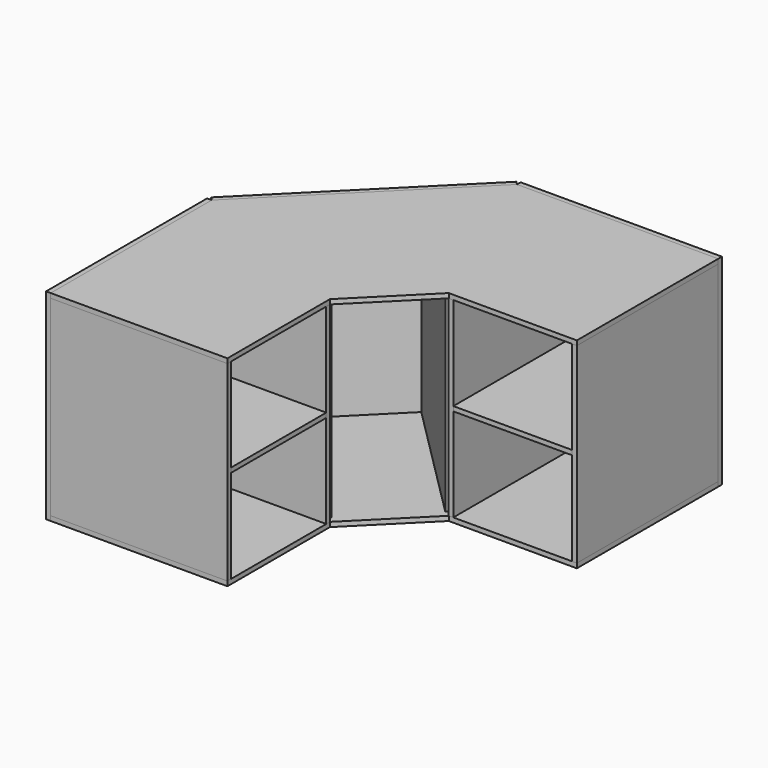
from build123d import *

# Parameters (mm, degrees)
F2_DEPTH  = 3.15
F3_W      = 120
F3_H      = 130
F4_DEPTH  = 3.15
F6_W      = 120
F6_H      = 130
F7_DEPTH  = 3.15
F11_W     = 120
F11_H     = 80.75
F12_DEPTH = 3.15
F11_W_2   = 80.75
F11_H_2   = 120
F14_DEPTH = 130
F15_W     = 136.7056274848
F15_H     = 136.3
F16_DEPTH = 3.15
F17_W     = 136.7056274848
F17_H     = 136.3
F18_DEPTH = 3.15
F19_W     = 162.838733242
F19_H     = 136.3
F20_DEPTH = 3.15


with BuildPart() as f2:
    # F1 (on Top) → F2 (new body)
    with BuildSketch(Plane.XY):
        Polygon((0, 136.7056274848), (0, 0), (120, 0), (120, 87), (164.85, 131.85), (251.85, 131.85), (251.85, 251.85), (115.1443725152, 251.85), align=None)
    extrude(amount=F2_DEPTH)


with BuildPart() as f4:
    # F3 (on face) → F4 (new body)
    with BuildSketch(Plane.XZ):
        with Locations((60, -65)):
            Rectangle(F3_W, F3_H)
    extrude(amount=-F4_DEPTH)


with BuildPart() as f5_1:
    # F5: copy of F4
    add(f4.part.moved(Location((0, 83.9, 0))))


with BuildPart() as f7:
    # F6 (on face) → F7 (new body)
    with BuildSketch(Plane.YZ.offset(251.85)):
        with Locations((191.85, -65)):
            Rectangle(F6_W, F6_H)
    extrude(amount=-F7_DEPTH)


with BuildPart() as f8_1:
    # F8: copy of F7
    add(f7.part.moved(Location((-83.9, 0, 0))))


with BuildPart() as f9_1:
    # F9: copy of F2
    add(f2.part.moved(Location((0, 0, -133.15))))


with BuildPart() as f12:
    # F11 (on offset) → F12 (new body)
    with BuildSketch(Plane.XY.offset(-66.575)):
        with Locations((60, 43.525)):
            Rectangle(F11_W, F11_H)
    extrude(amount=F12_DEPTH)


with BuildPart() as f12b:
    # F11 (on offset) → F12, piece 2 (new body)
    with BuildSketch(Plane.XY.offset(-66.575)):
        with Locations((208.325, 191.85)):
            Rectangle(F11_W_2, F11_H_2)
    extrude(amount=F12_DEPTH)


with BuildPart() as f14:
    # F13 (on face) → F14 (new body, through all)
    with BuildSketch(Plane.XY.offset(-130)):
        Polygon((115.1660335853, 89.2371013971), (117.393419946, 91.4644877579), (36.0761401095, 172.7817675943), (33.8487537488, 170.5543812336), align=None)
    extrude(amount=F14_DEPTH)


with BuildPart() as f14b:
    # F13 (on face) → F14, piece 2 (new body, through all)
    with BuildSketch(Plane.XY.offset(-130)):
        Polygon((81.2956187664, 218.0012462512), (79.0682324057, 215.7738598905), (160.3855122421, 134.456580054), (162.6128986029, 136.6839664147), align=None)
    extrude(amount=F14_DEPTH)


with BuildPart() as f16:
    # F15 (on face) → F16 (new body)
    with BuildSketch(Plane(origin=(0, 0, 0), x_dir=(0, -1, 0), z_dir=(-1, 0, 0))):
        with Locations((-68.3528137424, -65)):
            Rectangle(F15_W, F15_H)
    extrude(amount=F16_DEPTH)


with BuildPart() as f18:
    # F17 (on face) → F18 (new body)
    with BuildSketch(Plane(origin=(0, 251.85, 0), x_dir=(-1, 0, 0), z_dir=(0, 1, 0))):
        with Locations((-183.4971862576, -65)):
            Rectangle(F17_W, F17_H)
    extrude(amount=F18_DEPTH)


with BuildPart() as f20:
    # F19 (on face) → F20 (new body)
    with BuildSketch(Plane(origin=(-68.3528137424, 68.3528137424, 0), x_dir=(-0.7071067812, -0.7071067812, 0), z_dir=(-0.7071067812, 0.7071067812, 0))):
        with Locations((-178.0848428418, -65)):
            Rectangle(F19_W, F19_H)
    extrude(amount=F20_DEPTH)


solid = Compound([f2.part, f4.part, f5_1.part, f7.part, f8_1.part, f9_1.part, f12.part, f12b.part, f14.part, f14b.part, f16.part, f18.part, f20.part])
